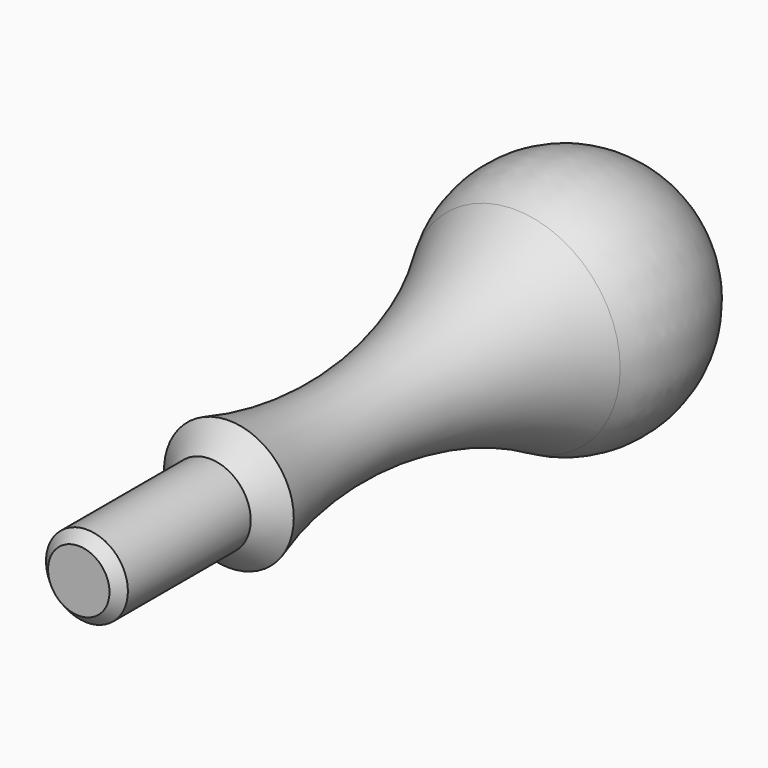
from build123d import *

# Parameters (mm, degrees)
F2_SIZE = 0.79375


with BuildPart() as f1:
    # F0 (on Top) → F1 (revolve)
    with BuildSketch(Plane.XY):
        with BuildLine():
            ThreePointArc((5.029786, 11.90625), (3.647321, 26.086292), (8.1915, 39.589449))
            ThreePointArc((8.1915, 39.589449), (8.277148, 49.16322), (0, 53.975))
            Line((0, 53.975), (0, -2.648536))
            Line((0, -2.648536), (3.175, -2.648536))
            Line((3.175, -2.648536), (3.175, 10.051464))
            Line((3.175, 10.051464), (5.029786, 11.90625))
        make_face()
    revolve(axis=Axis((0, 25.663232, 0), (0, -1, 0)))

    # F2
    f2_edges = [f1.edges().sort_by_distance(p)[0] for p in [
        (-3.175, -2.648536, 0),
    ]]
    chamfer(f2_edges, length=F2_SIZE)


solid = f1.part
